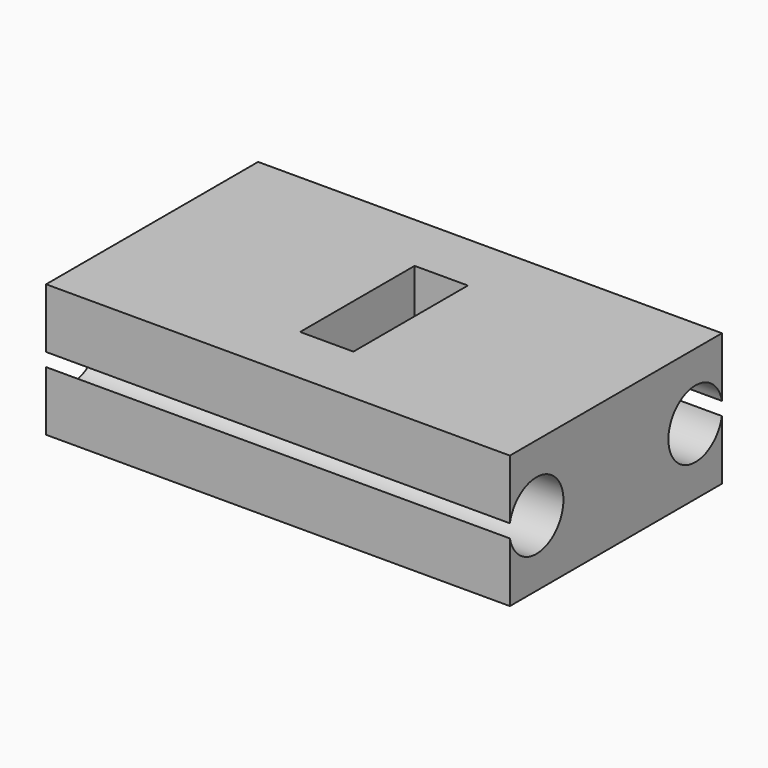
from build123d import *

# Parameters (mm, degrees)
F0_W     = 44.45
F0_H     = 25.4
F0_W_2   = 5.1054
F0_H_2   = 13.716
F1_DEPTH = 12.7
F3_D     = 6.477


with BuildPart() as f1:
    # F0 (on Top) → F1 (new body)
    with BuildSketch(Plane.XY):
        Rectangle(F0_W, F0_H)
        Rectangle(F0_W_2, F0_H_2, mode=Mode.SUBTRACT)
    extrude(amount=F1_DEPTH)

    # F3 (through all)
    with Locations(Plane.YZ.offset(22.225)):
        with Locations((-9.525, 6.35), (9.525, 6.35)):
            Hole(F3_D / 2)


solid = f1.part
